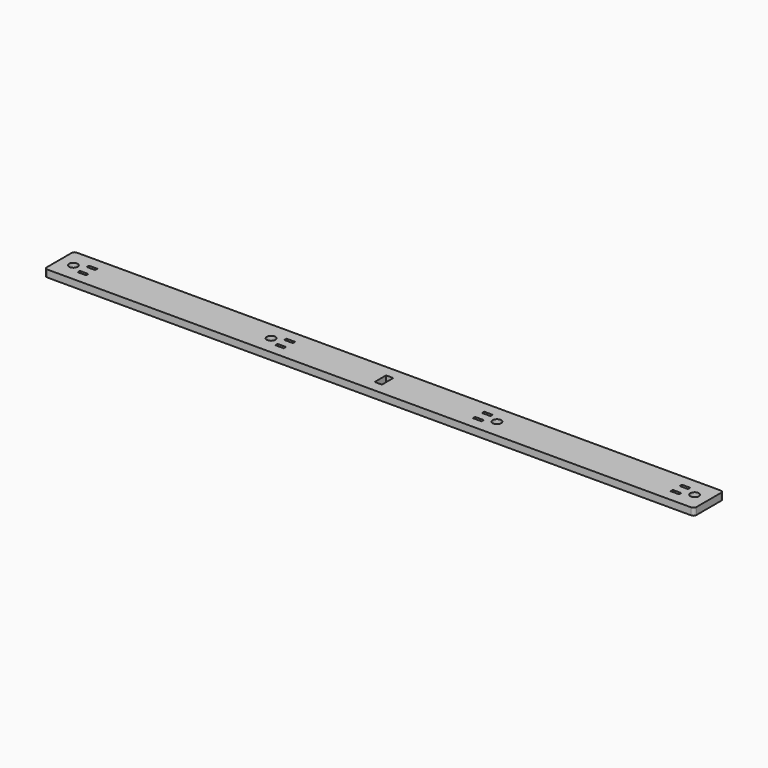
from build123d import *

# Parameters (mm, degrees)
F0_W     = 6
F0_H     = 2
F0_R     = 3
F0_W_2   = 5.1
F0_H_2   = 10.1
F1_DEPTH = 5


with BuildPart() as f1:
    # F0 (on Top) → F1 (new body)
    with BuildSketch(Plane.XY):
        with BuildLine():
            ThreePointArc((-80, -11), (-79.414214, -12.414214), (-78, -13))
            Line((-78, -13), (378, -13))
            ThreePointArc((378, -13), (379.414214, -12.414214), (380, -11))
            Line((380, -11), (380, 11))
            ThreePointArc((380, 11), (379.414214, 12.414214), (378, 13))
            Line((378, 13), (-78, 13))
            ThreePointArc((-78, 13), (-79.414214, 12.414214), (-80, 11))
            Line((-80, 11), (-80, -11))
        make_face()
        with Locations((-60, -4)):
            Rectangle(F0_W, F0_H, mode=Mode.SUBTRACT)
        with Locations((-70, 0)):
            Circle(F0_R, mode=Mode.SUBTRACT)
        with Locations((80, -4)):
            Rectangle(F0_W, F0_H, mode=Mode.SUBTRACT)
        with Locations((70, 0)):
            Circle(F0_R, mode=Mode.SUBTRACT)
        with Locations((220, -4)):
            Rectangle(F0_W, F0_H, mode=Mode.SUBTRACT)
        with Locations((150, 0)):
            Rectangle(F0_W_2, F0_H_2, mode=Mode.SUBTRACT)
        with Locations((230, 0)):
            Circle(F0_R, mode=Mode.SUBTRACT)
        with Locations((360, -4)):
            Rectangle(F0_W, F0_H, mode=Mode.SUBTRACT)
        with Locations((370, 0)):
            Circle(F0_R, mode=Mode.SUBTRACT)
        with Locations((-60, 4)):
            Rectangle(F0_W, F0_H, mode=Mode.SUBTRACT)
        with Locations((80, 4)):
            Rectangle(F0_W, F0_H, mode=Mode.SUBTRACT)
        with Locations((220, 4)):
            Rectangle(F0_W, F0_H, mode=Mode.SUBTRACT)
        with Locations((360, 4)):
            Rectangle(F0_W, F0_H, mode=Mode.SUBTRACT)
    extrude(amount=F1_DEPTH)


solid = f1.part
